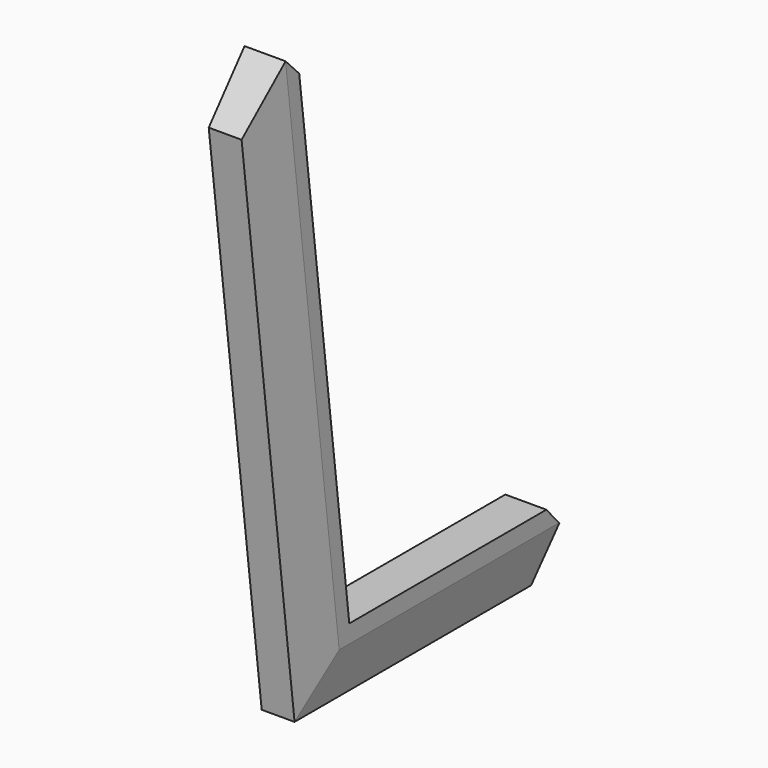
from build123d import *

# Parameters (mm, degrees)
F1_DEPTH = 50
F2_SIZE2 = 10
F2_SIZE  = 62
F3_SIZE2 = 58
F3_SIZE  = 10


with BuildPart() as f1:
    # F0 (on Right) → F1 (new body)
    with BuildSketch(Plane.YZ):
        Polygon((482.7914457609, 377.3975717771), (463.0650614387, 400), (163.0650614387, 400), (86.8967218104, 1020.3413447758), (66.1366664017, 1041.9982166512), (11.6469021237, 976.7612210971), (92.2870402742, 320), (452.2870402742, 320), align=None)
    extrude(amount=-F1_DEPTH)

    # F2
    f2_edges = [f1.edges().sort_by_distance(p)[0] for p in [
        (0, 51.966971, 648.380611),
    ]]
    f2_side = f1.faces().sort_by_distance((0, 466.432885, 383.02992))[0]
    chamfer(f2_edges, length=F2_SIZE, length2=F2_SIZE2, reference=f2_side)

    # F3
    f3_edges = [f1.edges().sort_by_distance(p)[0] for p in [
        (0, 303.519845, 320),
    ]]
    f3_side = f1.faces().sort_by_distance((-25.382589, 275.0978, 320))[0]
    chamfer(f3_edges, length=F3_SIZE, length2=F3_SIZE2, reference=f3_side)


solid = f1.part
